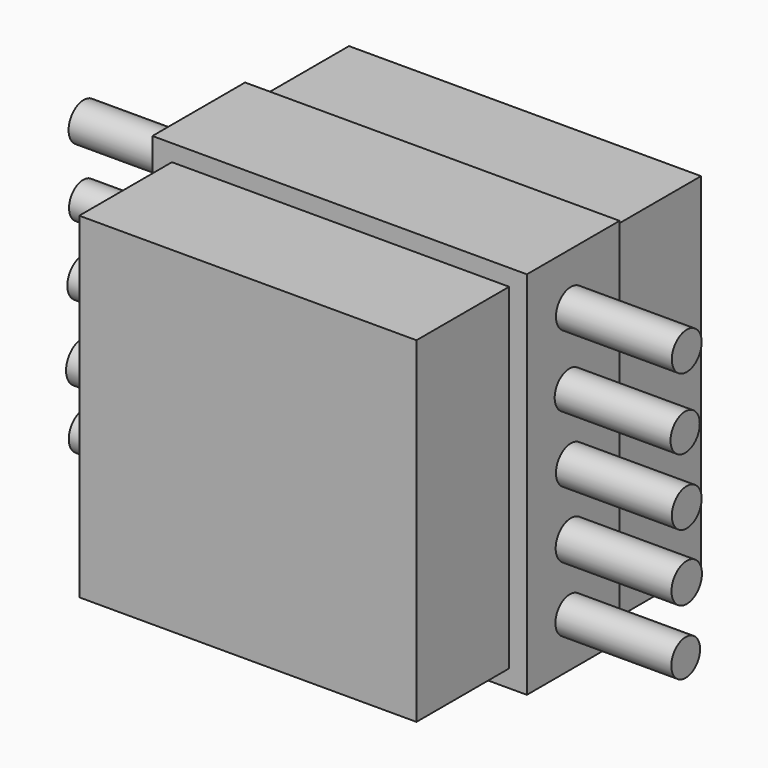
from build123d import *

# Parameters (mm, degrees)
F0_W     = 42.3415824771
F0_H     = 39.5551770926
F0_W_2   = 39.7675335407
F0_H_2   = 41.6155532002
F1_DEPTH = 25.4
F2_W     = 35.4850441217
F2_H     = 35.8898155391
F2_W_2   = 38.453374058
F2_H_2   = 37.7787537873
F3_DEPTH = 25.4
F4_W     = 39.8773439229
F4_H     = 37.0570905507
F4_W_2   = 37.3032912612
F4_H_2   = 38.8300158083
F5_DEPTH = 25.4
F6_R     = 4.0879753591
F6_R_2   = 4.0037311952
F6_R_3   = 4.0854495617
F6_R_4   = 4.1705192674
F6_R_5   = 3.9465691335
F7_DEPTH = 25.4
F8_R     = 4.138200079
F8_R_2   = 3.8699291695
F8_R_3   = 4.1902853873
F8_R_4   = 4.3971579596
F8_R_5   = 4.0885433944
F9_DEPTH = 25.4


with BuildPart() as f1:
    # F0 (on Front) → F1 (new body)
    with BuildSketch(Plane.XZ):
        with Locations((21.1707912385, 19.7775885463)):
            Rectangle(F0_W, F0_H)
        with Locations((-19.8837667704, -20.8077766001)):
            Rectangle(F0_W_2, F0_H_2)
        with Locations((21.1707912385, -20.8077766001)):
            Rectangle(F0_W, F0_H_2)
        with Locations((-19.8837667704, 19.7775885463)):
            Rectangle(F0_W_2, F0_H)
    extrude(amount=F1_DEPTH)

    # F2 (on face) → F3 (join)
    with BuildSketch(Plane.XZ.offset(25.4)):
        with Locations((-17.7425220609, 17.9449077696)):
            Rectangle(F2_W, F2_H)
        with Locations((19.226687029, 17.9449077696)):
            Rectangle(F2_W_2, F2_H)
        with Locations((-17.7425220609, -18.8893768936)):
            Rectangle(F2_W, F2_H_2)
        with Locations((19.226687029, -18.8893768936)):
            Rectangle(F2_W_2, F2_H_2)
    extrude(amount=F3_DEPTH)

    # F4 (on face) → F5 (join)
    with BuildSketch(Plane(origin=(0, 0, 0), x_dir=(-1, 0, 0), z_dir=(0, 1, 0))):
        with Locations((-19.9386719614, 18.5285452753)):
            Rectangle(F4_W, F4_H)
        with Locations((18.6516456306, 18.5285452753)):
            Rectangle(F4_W_2, F4_H)
        with Locations((18.6516456306, -19.4150079042)):
            Rectangle(F4_W_2, F4_H_2)
        with Locations((-19.9386719614, -19.4150079042)):
            Rectangle(F4_W, F4_H_2)
    extrude(amount=F5_DEPTH)

    # F6 (on face) → F7 (join)
    with BuildSketch(Plane.YZ.offset(42.3415824771)):
        with Locations((-13.346764259, 28.1461030245)):
            Circle(F6_R)
        with Locations((-13.7779414654, 12.6237412915)):
            Circle(F6_R_2)
        with Locations((-13.346764259, -2.0362669602)):
            Circle(F6_R_3)
        with Locations((-13.346764259, -16.5525507182)):
            Circle(F6_R_4)
        with Locations((-13.6342160404, -30.9251081198)):
            Circle(F6_R_5)
    extrude(amount=F7_DEPTH)

    # F8 (on face) → F9 (join)
    with BuildSketch(Plane(origin=(-39.7675335407, 0, 0), x_dir=(0, -1, 0), z_dir=(-1, 0, 0))):
        with Locations((12.4844107777, 28.8647320122)):
            Circle(F8_R)
        with Locations((12.6281362027, 13.7735465541)):
            Circle(F8_R_2)
        with Locations((12.771862559, -1.0301880538)):
            Circle(F8_R_3)
        with Locations((12.915587984, -17.2711778432)):
            Circle(F8_R_4)
        with Locations((12.4844107777, -30.7813826948)):
            Circle(F8_R_5)
    extrude(amount=F9_DEPTH)


solid = f1.part
